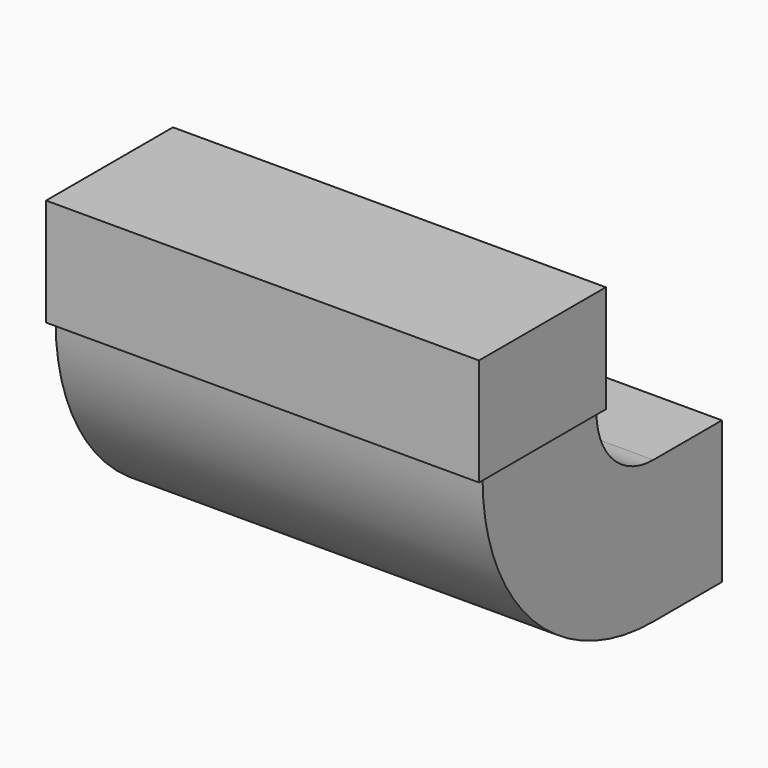
from build123d import *

# Parameters (mm, degrees)
F0_W      = 1828.8
F0_H      = 609.6
F2_ANGLE  = 90
F2_FACE_W = 1828.8
F2_FACE_H = 609.6
F3_DEPTH  = 367.284
F4_W      = 1854.2
F4_H      = 679.196
F5_DEPTH  = 460.248


with BuildPart() as f2:
    # F0 (on Front) → F2 (revolve)
    with BuildSketch(Plane.XZ):
        Rectangle(F0_W, F0_H)
    revolve(axis=Axis((-199.10112, 0, 609.6), (-1, 0, 0)), revolution_arc=F2_ANGLE)

    # F2_face (on face) → F3 (join)
    with BuildSketch(Plane(origin=(0, 0, 0), x_dir=(-1, 0, 0), z_dir=(0, 1, 0))):
        Rectangle(F2_FACE_W, F2_FACE_H)
    extrude(amount=F3_DEPTH)

    # F4 (on face) → F5 (join)
    with BuildSketch(Plane.XY.offset(609.6)):
        with Locations((0, -609.6)):
            Rectangle(F4_W, F4_H)
    extrude(amount=F5_DEPTH)


solid = f2.part
